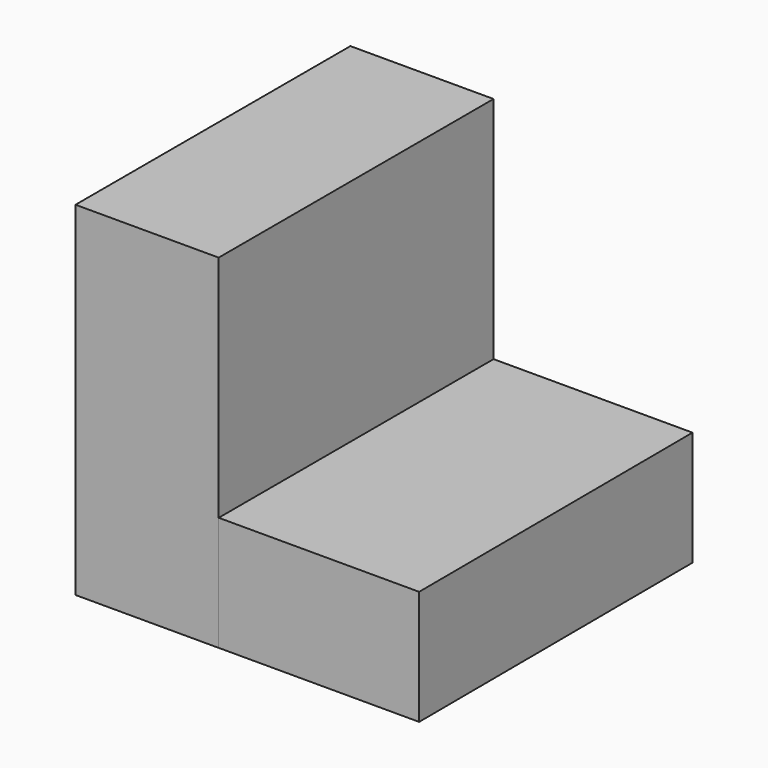
from build123d import *

# Parameters (mm, degrees)
F0_W     = 25
F0_H     = 60
F1_DEPTH = 60
F3_DEPTH = 20
F5_D     = 15
F5_DEPTH = 20
F5_TIP   = 4.5064546427


with BuildPart() as f1:
    # F0 (on Top) → F1 (new body)
    with BuildSketch(Plane.XY):
        with Locations((-17.5, 0)):
            Rectangle(F0_W, F0_H)
    extrude(amount=F1_DEPTH)

    # F2 (on Top) → F3 (join)
    with BuildSketch(Plane.XY):
        Polygon((29.7366095148, 30.0084589422), (-5.2633904852, 30.0084589422), (-4.995259922, -29.9915410578), (30.004740078, -29.9915410578), align=None)
    extrude(amount=F3_DEPTH)

    # F5
    with Locations(Plane(origin=(-30, 0, 0), x_dir=(0, -1, 0), z_dir=(-1, 0, 0))):
        with Locations((0, 10)):
            Hole(F5_D / 2, depth=F5_DEPTH)
            with Locations((0, 0, -(F5_DEPTH + F5_TIP / 2))):  # 118° drill point
                Cone(0, F5_D / 2, F5_TIP, mode=Mode.SUBTRACT)


solid = f1.part
